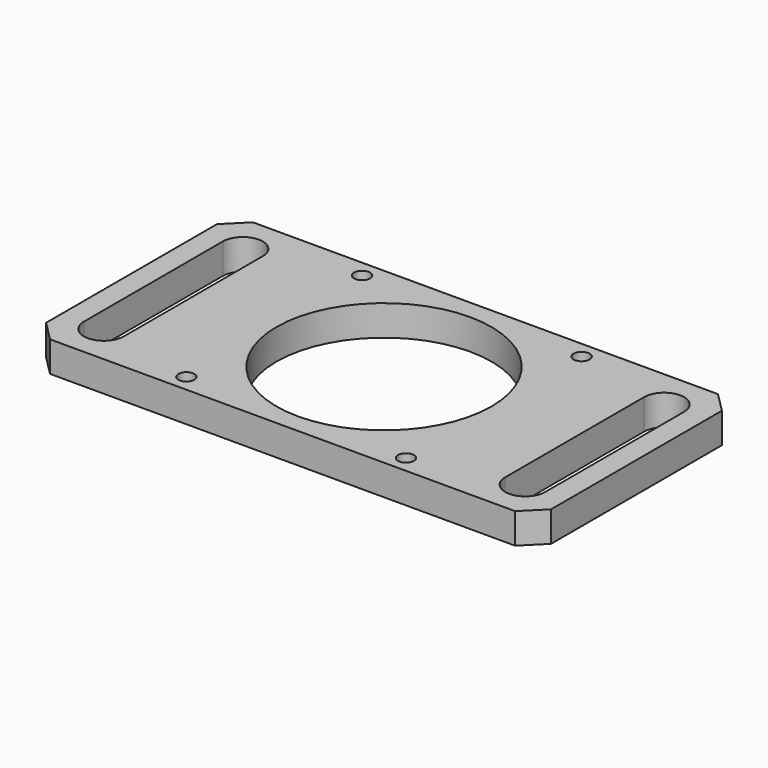
from build123d import *

# Parameters (mm, degrees)
F0_R     = 3.5
F0_R_2   = 26.939
F0_R_3   = 2
F1_DEPTH = 7.62
F2_SIZE  = 5
F3_DEPTH = 3
F5_DEPTH = 7.621


with BuildPart() as f1:
    # F0 (on Top) → F1 (new body)
    with BuildSketch(Plane.XY):
        with BuildLine():
            Line((-63.246, -31.75), (53.4919352041, -31.75))
            ThreePointArc((53.4919352041, -31.75), (54.587432302, -27.425845124), (55.5221311631, -23.0641060991))
            ThreePointArc((55.5221311631, -23.0641060991), (57.1917396179, -11.5857281785), (57.75, 0))
            ThreePointArc((57.75, 0), (57.2729939153, 10.71125257), (55.8457521723, 21.3377029383))
            ThreePointArc((55.8457521723, 21.3377029383), (54.7842028331, 26.5699297025), (53.4919352041, 31.75))
            Line((53.4919352041, 31.75), (-63.246, 31.75))
            Line((-63.246, 31.75), (-63.246, 4.9753375765))
            ThreePointArc((-63.246, 4.9753375765), (-59.3944076529, 3.7067505986), (-57.75, 0))
            ThreePointArc((-57.75, 0), (-59.3944076529, -3.7067505986), (-63.246, -4.9753375765))
            Line((-63.246, -4.9753375765), (-63.246, -31.75))
        make_face()
        with Locations((-27.5, -27.5)):
            Circle(F0_R, mode=Mode.SUBTRACT)
        with Locations((27.5, -27.5)):
            Circle(F0_R, mode=Mode.SUBTRACT)
        Circle(F0_R_2, mode=Mode.SUBTRACT)
        with Locations((-27.5, 27.5)):
            Circle(F0_R, mode=Mode.SUBTRACT)
        with Locations((27.5, 27.5)):
            Circle(F0_R, mode=Mode.SUBTRACT)
        with BuildLine():
            ThreePointArc((57.75, 0), (57.1917396179, -11.5857281785), (55.5221311631, -23.0641060991))
            ThreePointArc((55.5221311631, -23.0641060991), (57.5950674928, -19.9022732128), (61.2887553012, -19.0954754674))
            ThreePointArc((61.2887553012, -19.0954754674), (62.1685752816, -12.0664638405), (62.6503984064, -4.9990078538))
            ThreePointArc((62.6503984064, -4.9990078538), (59.1794252586, -3.5001422851), (57.75, 0))
        make_face()
        with BuildLine():
            ThreePointArc((61.5539163411, 17.285438446), (57.8723808444, 18.1459903288), (55.8457521723, 21.3377029383))
            ThreePointArc((55.8457521723, 21.3377029383), (57.2729939153, 10.71125257), (57.75, 0))
            ThreePointArc((57.75, 0), (59.1794252586, 3.5001422851), (62.6503984064, 4.9990078538))
            ThreePointArc((62.6503984064, 4.9990078538), (62.2532011392, 11.1557027996), (61.5539163411, 17.285438446))
        make_face()
        with BuildLine():
            Line((-63.246, 4.9753375765), (-63.246, -4.9753375765))
            ThreePointArc((-63.246, -4.9753375765), (-59.3944076529, -3.7067505986), (-57.75, 0))
            ThreePointArc((-57.75, 0), (-59.3944076529, 3.7067505986), (-63.246, 4.9753375765))
        make_face()
        with BuildLine():
            Line((-63.246, 4.9753375765), (-63.246, -4.9753375765))
            ThreePointArc((-63.246, -4.9753375765), (-59.3944076529, -3.7067505986), (-57.75, 0))
            ThreePointArc((-57.75, 0), (-59.3944076529, 3.7067505986), (-63.246, 4.9753375765))
        make_face()
        with BuildLine():
            ThreePointArc((61.5539163411, 17.285438446), (60.7667377697, 22.2230846359), (59.7835039964, 27.1254566482))
            ThreePointArc((59.7835039964, 27.1254566482), (56.6327959648, 25.0356502181), (55.8457521723, 21.3377029383))
            ThreePointArc((55.8457521723, 21.3377029383), (57.8723808444, 18.1459903288), (61.5539163411, 17.285438446))
        make_face()
        with BuildLine():
            ThreePointArc((62.6503984064, 4.9990078538), (59.1794252586, 3.5001422851), (57.75, 0))
            ThreePointArc((57.75, 0), (59.1794252586, -3.5001422851), (62.6503984064, -4.9990078538))
            ThreePointArc((62.6503984064, -4.9990078538), (62.7250971309, -2.5), (62.75, 0))
            ThreePointArc((62.75, 0), (62.7250971309, 2.5), (62.6503984064, 4.9990078538))
        make_face()
        with BuildLine():
            ThreePointArc((55.5221311631, -23.0641060991), (56.2551893582, -26.7731327404), (59.375101392, -28.9086424794))
            ThreePointArc((59.375101392, -28.9086424794), (60.4296884523, -24.0211230541), (61.2887553012, -19.0954754674))
            ThreePointArc((61.2887553012, -19.0954754674), (57.5950674928, -19.9022732128), (55.5221311631, -23.0641060991))
        make_face()
        with Locations((-27.5, -27.5)):
            Circle(F0_R)
        with Locations((-27.5, -27.5)):
            Circle(F0_R_3, mode=Mode.SUBTRACT)
        with Locations((-27.5, 27.5)):
            Circle(F0_R)
        with Locations((-27.5, 27.5)):
            Circle(F0_R_3, mode=Mode.SUBTRACT)
        with Locations((27.5, 27.5)):
            Circle(F0_R)
        with Locations((27.5, 27.5)):
            Circle(F0_R_3, mode=Mode.SUBTRACT)
        with Locations((27.5, -27.5)):
            Circle(F0_R)
        with Locations((27.5, -27.5)):
            Circle(F0_R_3, mode=Mode.SUBTRACT)
        with BuildLine():
            ThreePointArc((59.7835039964, 27.1254566482), (59.2473718355, 29.4430172575), (58.6674102013, 31.75))
            Line((58.6674102013, 31.75), (53.4919352041, 31.75))
            ThreePointArc((53.4919352041, 31.75), (54.7842028331, 26.5699297025), (55.8457521723, 21.3377029383))
            ThreePointArc((55.8457521723, 21.3377029383), (56.6327959648, 25.0356502181), (59.7835039964, 27.1254566482))
        make_face()
        with BuildLine():
            ThreePointArc((59.7835039964, 27.1254566482), (59.2473718355, 29.4430172575), (58.6674102013, 31.75))
            Line((58.6674102013, 31.75), (53.4919352041, 31.75))
            ThreePointArc((53.4919352041, 31.75), (54.7842028331, 26.5699297025), (55.8457521723, 21.3377029383))
            ThreePointArc((55.8457521723, 21.3377029383), (56.6327959648, 25.0356502181), (59.7835039964, 27.1254566482))
        make_face()
        with BuildLine():
            ThreePointArc((59.375101392, -28.9086424794), (61.3882555849, -28.928377791), (63.246, -28.1525137724))
            Line((63.246, -28.1525137724), (63.246, -19.8897323359))
            ThreePointArc((63.246, -19.8897323359), (62.3097981786, -19.3880692646), (61.2887553012, -19.0954754674))
            ThreePointArc((61.2887553012, -19.0954754674), (60.4296884523, -24.0211230541), (59.375101392, -28.9086424794))
        make_face()
        with BuildLine():
            ThreePointArc((59.375101392, -28.9086424794), (61.3882555849, -28.928377791), (63.246, -28.1525137724))
            Line((63.246, -28.1525137724), (63.246, -19.8897323359))
            ThreePointArc((63.246, -19.8897323359), (62.3097981786, -19.3880692646), (61.2887553012, -19.0954754674))
            ThreePointArc((61.2887553012, -19.0954754674), (60.4296884523, -24.0211230541), (59.375101392, -28.9086424794))
        make_face()
        with BuildLine():
            ThreePointArc((63.246, 26.5651185825), (61.5654992942, 27.1588702904), (59.7835039964, 27.1254566482))
            ThreePointArc((59.7835039964, 27.1254566482), (60.7667377697, 22.2230846359), (61.5539163411, 17.285438446))
            ThreePointArc((61.5539163411, 17.285438446), (62.4268875713, 17.5067404334), (63.246, 17.8810506893))
            Line((63.246, 17.8810506893), (63.246, 26.5651185825))
        make_face()
        with BuildLine():
            ThreePointArc((63.246, 26.5651185825), (61.5654992942, 27.1588702904), (59.7835039964, 27.1254566482))
            ThreePointArc((59.7835039964, 27.1254566482), (60.7667377697, 22.2230846359), (61.5539163411, 17.285438446))
            ThreePointArc((61.5539163411, 17.285438446), (62.4268875713, 17.5067404334), (63.246, 17.8810506893))
            Line((63.246, 17.8810506893), (63.246, 26.5651185825))
        make_face()
        with BuildLine():
            Line((53.4919352041, -31.75), (58.6674102013, -31.75))
            ThreePointArc((58.6674102013, -31.75), (59.0295428897, -30.3313852893), (59.375101392, -28.9086424794))
            ThreePointArc((59.375101392, -28.9086424794), (56.2551893582, -26.7731327404), (55.5221311631, -23.0641060991))
            ThreePointArc((55.5221311631, -23.0641060991), (54.587432302, -27.425845124), (53.4919352041, -31.75))
        make_face()
        with BuildLine():
            Line((53.4919352041, -31.75), (58.6674102013, -31.75))
            ThreePointArc((58.6674102013, -31.75), (59.0295428897, -30.3313852893), (59.375101392, -28.9086424794))
            ThreePointArc((59.375101392, -28.9086424794), (56.2551893582, -26.7731327404), (55.5221311631, -23.0641060991))
            ThreePointArc((55.5221311631, -23.0641060991), (54.587432302, -27.425845124), (53.4919352041, -31.75))
        make_face()
        with BuildLine():
            Line((63.246, 31.75), (58.6674102013, 31.75))
            ThreePointArc((58.6674102013, 31.75), (59.2473718355, 29.4430172575), (59.7835039964, 27.1254566482))
            ThreePointArc((59.7835039964, 27.1254566482), (61.5654992942, 27.1588702904), (63.246, 26.5651185825))
            Line((63.246, 26.5651185825), (63.246, 31.75))
        make_face()
        with BuildLine():
            Line((63.246, 31.75), (58.6674102013, 31.75))
            ThreePointArc((58.6674102013, 31.75), (59.2473718355, 29.4430172575), (59.7835039964, 27.1254566482))
            ThreePointArc((59.7835039964, 27.1254566482), (61.5654992942, 27.1588702904), (63.246, 26.5651185825))
            Line((63.246, 26.5651185825), (63.246, 31.75))
        make_face()
        with BuildLine():
            ThreePointArc((61.2887553012, -19.0954754674), (62.3097981786, -19.3880692646), (63.246, -19.8897323359))
            Line((63.246, -19.8897323359), (63.246, -4.9753375765))
            ThreePointArc((63.246, -4.9753375765), (62.9485522467, -4.9960561451), (62.6503984064, -4.9990078538))
            ThreePointArc((62.6503984064, -4.9990078538), (62.1685752816, -12.0664638405), (61.2887553012, -19.0954754674))
        make_face()
        with BuildLine():
            ThreePointArc((63.246, 17.8810506893), (62.4268875713, 17.5067404334), (61.5539163411, 17.285438446))
            ThreePointArc((61.5539163411, 17.285438446), (62.2532011392, 11.1557027996), (62.6503984064, 4.9990078538))
            ThreePointArc((62.6503984064, 4.9990078538), (62.9485522467, 4.9960561451), (63.246, 4.9753375765))
            Line((63.246, 4.9753375765), (63.246, 17.8810506893))
        make_face()
        with BuildLine():
            ThreePointArc((63.246, 17.8810506893), (62.4268875713, 17.5067404334), (61.5539163411, 17.285438446))
            ThreePointArc((61.5539163411, 17.285438446), (62.2532011392, 11.1557027996), (62.6503984064, 4.9990078538))
            ThreePointArc((62.6503984064, 4.9990078538), (62.9485522467, 4.9960561451), (63.246, 4.9753375765))
            Line((63.246, 4.9753375765), (63.246, 17.8810506893))
        make_face()
        with BuildLine():
            Line((58.6674102013, -31.75), (63.246, -31.75))
            Line((63.246, -31.75), (63.246, -28.1525137724))
            ThreePointArc((63.246, -28.1525137724), (61.3882555849, -28.928377791), (59.375101392, -28.9086424794))
            ThreePointArc((59.375101392, -28.9086424794), (59.0295428897, -30.3313852893), (58.6674102013, -31.75))
        make_face()
        with BuildLine():
            Line((58.6674102013, -31.75), (63.246, -31.75))
            Line((63.246, -31.75), (63.246, -28.1525137724))
            ThreePointArc((63.246, -28.1525137724), (61.3882555849, -28.928377791), (59.375101392, -28.9086424794))
            ThreePointArc((59.375101392, -28.9086424794), (59.0295428897, -30.3313852893), (58.6674102013, -31.75))
        make_face()
        with BuildLine():
            ThreePointArc((62.6503984064, -4.9990078538), (62.9485522467, -4.9960561451), (63.246, -4.9753375765))
            Line((63.246, -4.9753375765), (63.246, 4.9753375765))
            ThreePointArc((63.246, 4.9753375765), (62.9485522467, 4.9960561451), (62.6503984064, 4.9990078538))
            ThreePointArc((62.6503984064, 4.9990078538), (62.7250971309, 2.5), (62.75, 0))
            ThreePointArc((62.75, 0), (62.7250971309, -2.5), (62.6503984064, -4.9990078538))
        make_face()
        with BuildLine():
            ThreePointArc((62.6503984064, -4.9990078538), (62.9485522467, -4.9960561451), (63.246, -4.9753375765))
            Line((63.246, -4.9753375765), (63.246, 4.9753375765))
            ThreePointArc((63.246, 4.9753375765), (62.9485522467, 4.9960561451), (62.6503984064, 4.9990078538))
            ThreePointArc((62.6503984064, 4.9990078538), (62.7250971309, 2.5), (62.75, 0))
            ThreePointArc((62.75, 0), (62.7250971309, -2.5), (62.6503984064, -4.9990078538))
        make_face()
    extrude(amount=F1_DEPTH)

    # F2
    f2_edges = [f1.edges().sort_by_distance(p)[0] for p in [
        (-63.246, 31.75, 3.81),
        (-63.246, -31.75, 3.81),
        (63.246, 31.75, 3.81),
        (63.246, -31.75, 3.81),
    ]]
    chamfer(f2_edges, length=F2_SIZE)

    # F0 (on Top) → F3 (cut)
    with BuildSketch(Plane.XY):
        with Locations((-27.5, -27.5)):
            Circle(F0_R)
        with Locations((-27.5, -27.5)):
            Circle(F0_R_3, mode=Mode.SUBTRACT)
        with Locations((27.5, -27.5)):
            Circle(F0_R)
        with Locations((27.5, -27.5)):
            Circle(F0_R_3, mode=Mode.SUBTRACT)
        with Locations((-27.5, 27.5)):
            Circle(F0_R)
        with Locations((-27.5, 27.5)):
            Circle(F0_R_3, mode=Mode.SUBTRACT)
        with Locations((27.5, 27.5)):
            Circle(F0_R)
        with Locations((27.5, 27.5)):
            Circle(F0_R_3, mode=Mode.SUBTRACT)
    extrude(amount=F3_DEPTH, mode=Mode.SUBTRACT)

    # F4 (on face) → F5 (cut, through all)
    with BuildSketch(Plane.XY.offset(7.62)):
        with BuildLine():
            Line((-47.7685, -21.75), (-47.7685, 0))
            ThreePointArc((-47.7685, 0), (-52.7685000018, -5), (-57.7685, 3.6e-09))
            Line((-57.7685, 3.6e-09), (-57.7685, -21.75))
            ThreePointArc((-57.7685, -21.75), (-52.7685, -16.75), (-47.7685, -21.75))
        make_face()
        with BuildLine():
            ThreePointArc((-57.7685, 3.6e-09), (-52.7685000018, -5), (-47.7685, 0))
            ThreePointArc((-47.7685, 0), (-52.7684999982, 5), (-57.7685, 3.6e-09))
        make_face()
        with BuildLine():
            ThreePointArc((-57.7685, 3.6e-09), (-52.7684999982, 5), (-47.7685, 0))
            Line((-47.7685, 0), (-47.7685, 21.75))
            ThreePointArc((-47.7685, 21.75), (-52.7685, 16.75), (-57.7685, 21.75))
            Line((-57.7685, 21.75), (-57.7685, 3.6e-09))
        make_face()
        with BuildLine():
            ThreePointArc((-57.7685, 21.75), (-52.7685, 16.75), (-47.7685, 21.75))
            Line((-47.7685, 21.75), (-57.7685, 21.75))
        make_face()
        with BuildLine():
            Line((-57.7685, 21.75), (-47.7685, 21.75))
            ThreePointArc((-47.7685, 21.75), (-52.7685, 26.75), (-57.7685, 21.75))
        make_face()
        with BuildLine():
            Line((-57.7685, -21.75), (-47.7685, -21.75))
            ThreePointArc((-47.7685, -21.75), (-52.7685, -16.75), (-57.7685, -21.75))
        make_face()
        with BuildLine():
            ThreePointArc((-57.7685, -21.75), (-52.7685, -26.75), (-47.7685, -21.75))
            Line((-47.7685, -21.75), (-57.7685, -21.75))
        make_face()
        with BuildLine():
            ThreePointArc((47.7685, -21.75), (52.7685, -26.75), (57.7685, -21.75))
            ThreePointArc((57.7685, -21.75), (52.7685, -16.75), (47.7685, -21.75))
        make_face()
        with BuildLine():
            Line((57.7685, -21.75), (57.7685, 21.75))
            ThreePointArc((57.7685, 21.75), (52.7685, 16.75), (47.7685, 21.75))
            Line((47.7685, 21.75), (47.7685, -21.75))
            ThreePointArc((47.7685, -21.75), (52.7685, -16.75), (57.7685, -21.75))
        make_face()
        with BuildLine():
            ThreePointArc((47.7685, 21.75), (52.7685, 16.75), (57.7685, 21.75))
            ThreePointArc((57.7685, 21.75), (52.7685, 26.75), (47.7685, 21.75))
        make_face()
    extrude(amount=-F5_DEPTH, mode=Mode.SUBTRACT)


solid = f1.part
